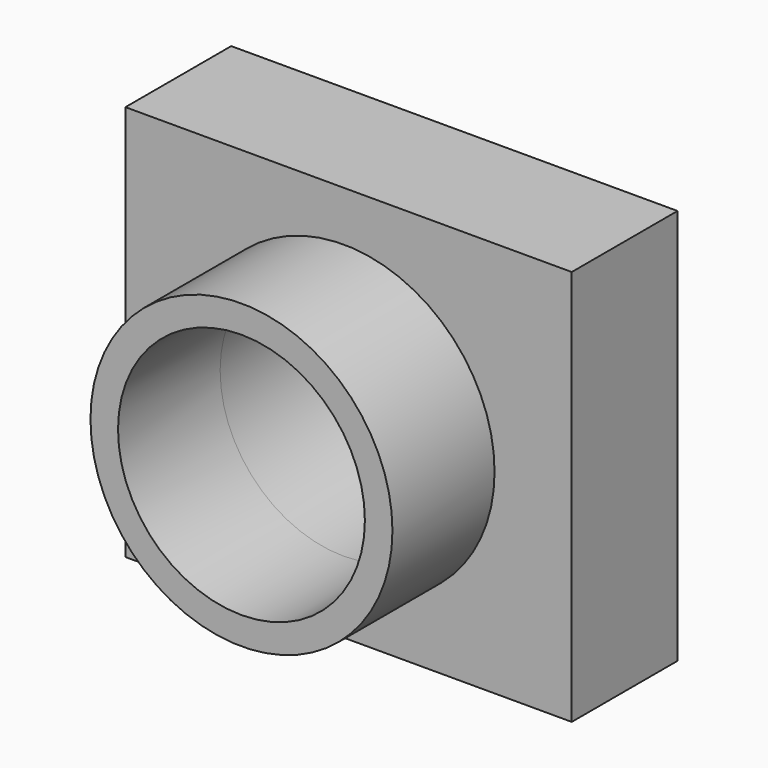
from build123d import *

# Parameters (mm, degrees)
F0_W     = 87.414469
F0_H     = 77.576831
F1_DEPTH = 25.9
F2_R     = 29.572162
F2_R_2   = 24.176686
F3_DEPTH = 25
F4_DEPTH = 41.6
F5_DEPTH = 58.3


with BuildPart() as f1:
    # F0 (on Front) → F1 (new body)
    with BuildSketch(Plane.XZ):
        with Locations((0.983765, 0.562154)):
            Rectangle(F0_W, F0_H)
    extrude(amount=F1_DEPTH)

    # F2 (on face) → F3 (join)
    with BuildSketch(Plane.XZ.offset(25.9)):
        Circle(F2_R)
        Circle(F2_R_2, mode=Mode.SUBTRACT)
    extrude(amount=F3_DEPTH)

    # F2 (on face) → F4 (cut)
    with BuildSketch(Plane.XZ.offset(25.9)):
        Circle(F2_R_2)
    extrude(amount=-F4_DEPTH, mode=Mode.SUBTRACT)

    # F2 (on face) → F5 (cut)
    with BuildSketch(Plane.XZ.offset(25.9)):
        Circle(F2_R_2)
    extrude(amount=-F5_DEPTH, mode=Mode.SUBTRACT)


solid = f1.part
